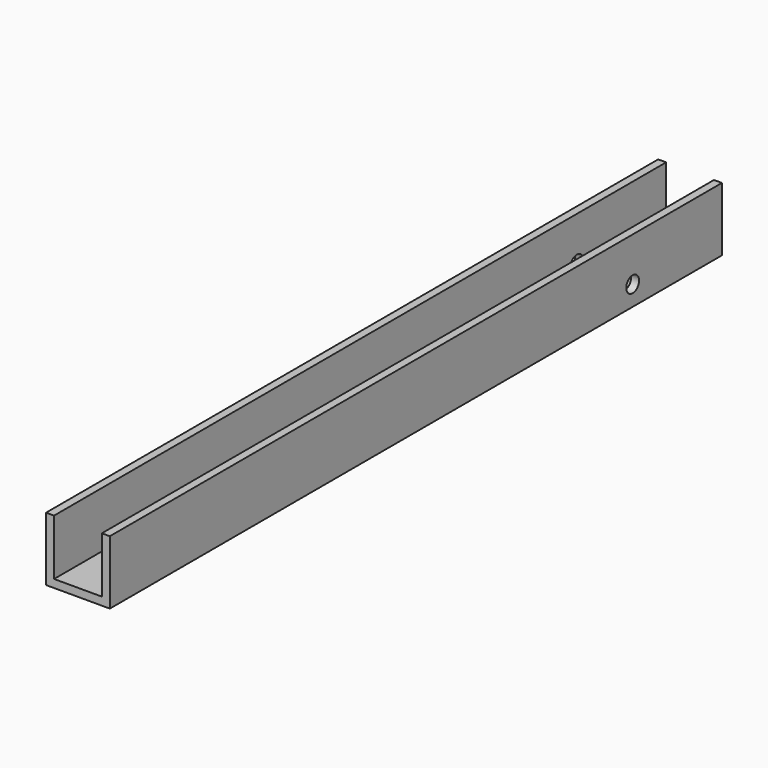
from build123d import *

# Parameters (mm, degrees)
F1_DEPTH = 304.8
F2_R     = 3.175
F3_DEPTH = 25.4
F4_R     = 1.5875
F5_DEPTH = 25.4


with BuildPart() as f1:
    # F0 (on Front) → F1 (new body)
    with BuildSketch(Plane.XZ):
        Polygon((-9.525, 12.7), (-12.7, 12.7), (-12.7, -12.7), (12.7, -12.7), (12.7, 12.7), (9.525, 12.7), (9.525, -9.525), (-9.525, -9.525), align=None)
    extrude(amount=-F1_DEPTH)

    # F2 (on face) → F3 (cut, through all)
    with BuildSketch(Plane.YZ.offset(12.7)):
        with Locations((260.35, -4.7498)):
            Circle(F2_R)
    extrude(amount=-F3_DEPTH, mode=Mode.SUBTRACT)

    # F4 (on face) → F5 (cut)
    with BuildSketch(Plane(origin=(0, 0, -12.7), x_dir=(1, 0, 0), z_dir=(0, 0, -1))):
        with Locations((0, -19.05)):
            Circle(F4_R)
        with Locations((0, -95.25)):
            Circle(F4_R)
        with Locations((0, -171.45)):
            Circle(F4_R)
    extrude(amount=-F5_DEPTH, mode=Mode.SUBTRACT)


solid = f1.part
